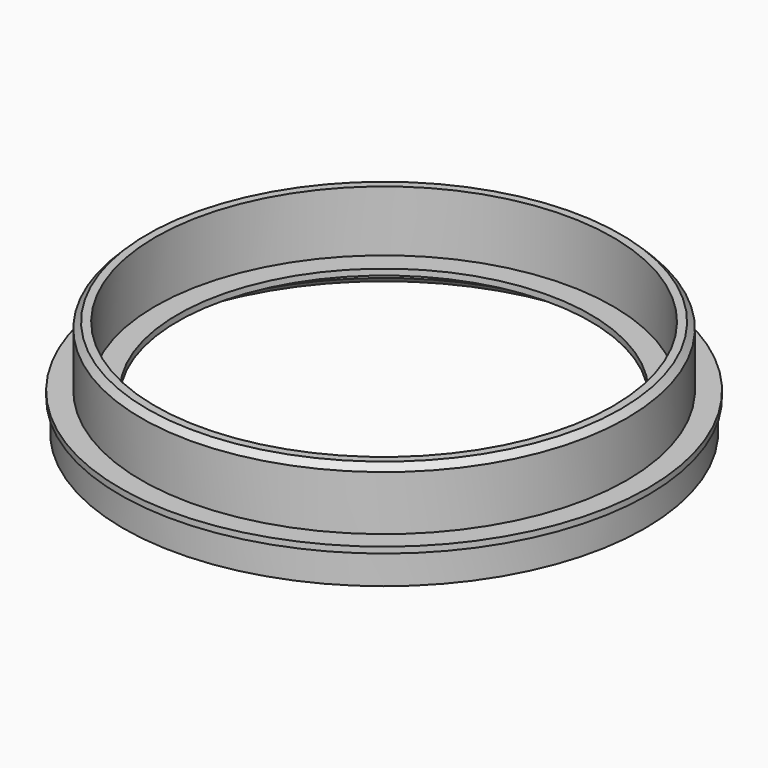
from build123d import *

# Parameters (mm, degrees)
SKETCH_R        = 43
SKETCH_R_2      = 41
PAD_DEPTH       = 5
SKETCH001_R     = 43.5
SKETCH001_R_2   = 34
PAD001_DEPTH    = 1
SKETCH002_R     = 40
SKETCH002_R_2   = 37.7
PAD002_DEPTH    = 10
CHAMFER_SIZE    = 1
CHAMFER001_SIZE = 1


with BuildPart() as part:
    # Sketch → Pad (new body)
    with BuildSketch(Plane.XY):
        Circle(SKETCH_R)
        Circle(SKETCH_R_2, mode=Mode.SUBTRACT)
    extrude(amount=PAD_DEPTH)

    # Sketch001 (on Face4 of Pad) → Pad001 (join)
    with BuildSketch(Plane.XY.offset(5)):
        Circle(SKETCH001_R)
        Circle(SKETCH001_R_2, mode=Mode.SUBTRACT)
    extrude(amount=PAD001_DEPTH)

    # Sketch002 (on Face3 of Pad001) → Pad002 (join)
    with BuildSketch(Plane.XY.offset(6)):
        Circle(SKETCH002_R)
        Circle(SKETCH002_R_2, mode=Mode.SUBTRACT)
    extrude(amount=PAD002_DEPTH)

    # Chamfer
    chamfer_edges = [part.edges().sort_by_distance(p)[0] for p in [
        (-40, 0, 16),
    ]]
    chamfer(chamfer_edges, length=CHAMFER_SIZE)

    # Chamfer001
    chamfer001_edges = [part.edges().sort_by_distance(p)[0] for p in [
        (-41, 0, 0),
    ]]
    chamfer(chamfer001_edges, length=CHAMFER001_SIZE)


solid = part.part
